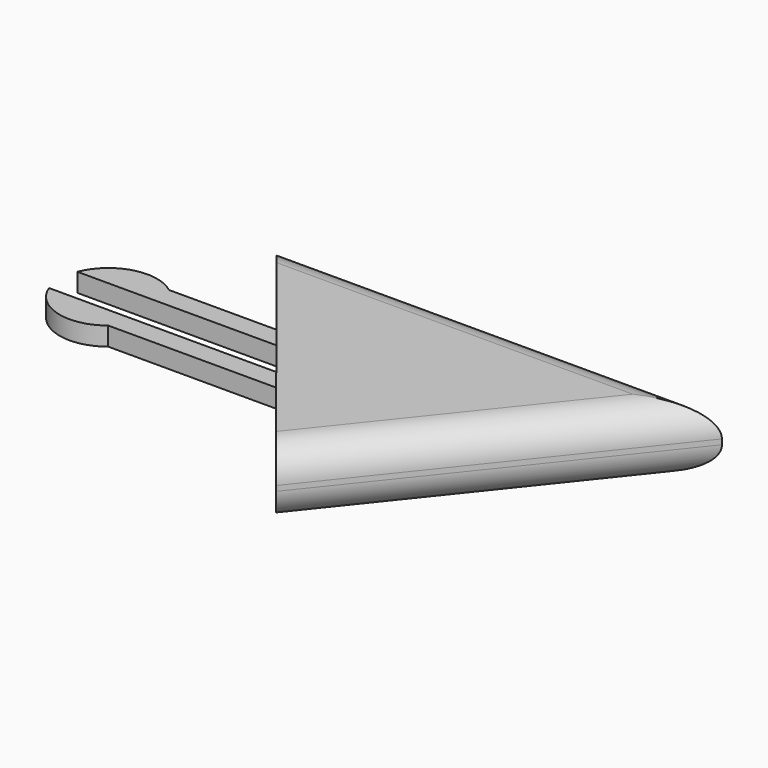
from build123d import *

# Parameters (mm, degrees)
F2_DEPTH = 3.5
F4_DEPTH = 1
F6_DEPTH = 1.8
F8_DEPTH = 1.2
F9_R     = 3


with BuildPart() as f2:
    # F1 (on Top) → F2 (new body)
    with BuildSketch(Plane.XY):
        Polygon((48.5598316574, 13.5), (5.4801683426, 13.5), (27.0198316574, -13.5), align=None)
    extrude(amount=-F2_DEPTH)

    # F3 (on Top) → F4 (cut)
    with BuildSketch(Plane.XY):
        Polygon((44.7943471372, 11.7882982132), (6.8457046456, 11.7882982132), (25.8198775993, -11.9958558036), align=None)
    extrude(amount=-F4_DEPTH, mode=Mode.SUBTRACT)

    # F5 (on face) → F6 (join)
    with BuildSketch(Plane.XY):
        with BuildLine():
            ThreePointArc((2.8793278964, 3.7278809202), (3.7658696299, 2.8294612951), (4.3820146982, 1.7278809202))
            Line((4.3820146982, 1.7278809202), (14.8715565456, 1.7278809202))
            Line((14.8715565456, 1.7278809202), (17.594606702, -1.6854665007))
            Line((17.594606702, -1.6854665007), (4.3985029231, -1.6854665007))
            ThreePointArc((4.3985029231, -1.6854665007), (3.7999051439, -2.783585132), (2.9334215452, -3.6854665007))
            Line((2.9334215452, -3.6854665007), (19.1901373179, -3.6854665007))
            Line((19.1901373179, -3.6854665007), (25.8198775993, -11.9958558036))
            Line((25.8198775993, -11.9958558036), (44.7943471372, 11.7882982132))
            Line((44.7943471372, 11.7882982132), (6.8457046456, 11.7882982132))
            Line((6.8457046456, 11.7882982132), (13.2760259297, 3.7278809202))
            Line((13.2760259297, 3.7278809202), (2.8793278964, 3.7278809202))
        make_face()
        Polygon((5.4801683426, 13.5), (6.8457046456, 11.7882982132), (44.7943471372, 11.7882982132), (25.8198775993, -11.9958558036), (27.0198316574, -13.5), (48.5598316574, 13.5), align=None)
        with BuildLine():
            Line((-4.3820146982, 1.7278809202), (4.3820146982, 1.7278809202))
            ThreePointArc((4.3820146982, 1.7278809202), (3.7658696299, 2.8294612951), (2.8793278964, 3.7278809202))
            ThreePointArc((2.8793278964, 3.7278809202), (-1.2508065023, 4.5412672663), (-4.3820146982, 1.7278809202))
        make_face()
        with BuildLine():
            ThreePointArc((2.9334215452, -3.6854665007), (3.7999051439, -2.783585132), (4.3985029231, -1.6854665007))
            Line((4.3985029231, -1.6854665007), (-4.3985029231, -1.6854665007))
            ThreePointArc((-4.3985029231, -1.6854665007), (-1.2396031062, -4.5443381728), (2.9334215452, -3.6854665007))
        make_face()
    extrude(amount=F6_DEPTH)

    # F7 (on face) → F8 (join)
    with BuildSketch(Plane.XY.offset(1.8)):
        Polygon((48.5598316574, 13.5), (5.4801683426, 13.5), (13.2760259297, 3.7278809202), (14.8715565456, 1.7278809202), (17.594606702, -1.6854665007), (19.1901373179, -3.6854665007), (27.0198316574, -13.5), align=None)
    extrude(amount=F8_DEPTH)

    # F9
    f9_edges = [f2.edges().sort_by_distance(p)[0] for p in [
        (27.02, 13.5, 3),
        (27.02, 13.5, -3.5),
        (37.789832, 0, 3),
        (37.789832, 0, -3.5),
    ]]
    fillet(f9_edges, radius=F9_R)


solid = f2.part
